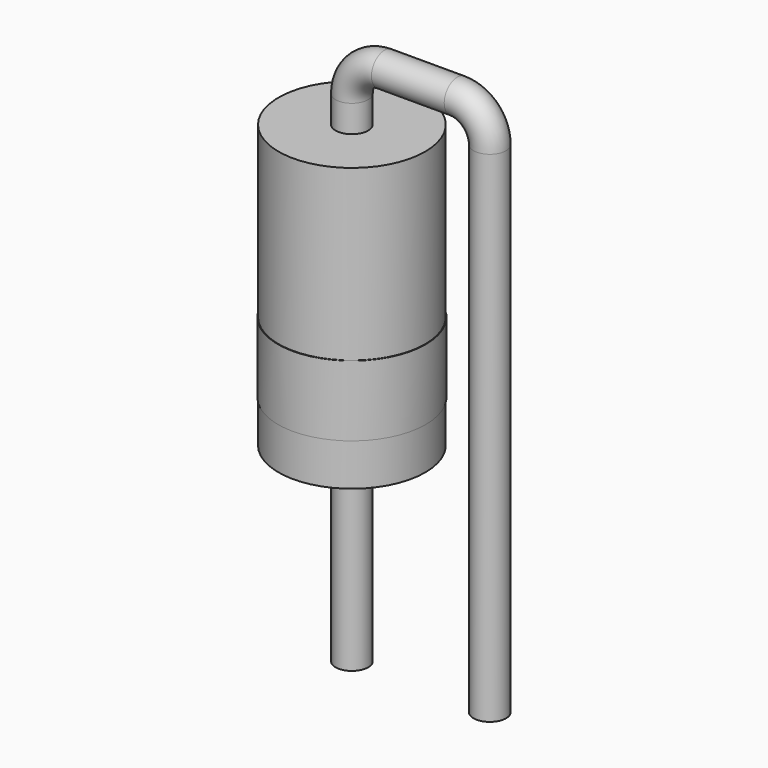
from build123d import *

# Parameters (mm, degrees)
SKETCH001_R = 0.3
SKETCH002_W = 1.35
SKETCH002_H = 5.2
SKETCH003_W = 1.36
SKETCH003_H = 1.3


with BuildPart() as sweep_body:
    # Sweep: sweep along a path in Sketch
    with BuildLine(Plane.XZ) as sweep_path:
        Line((0, -3), (0, 6.2))
        ThreePointArc((0, 6.2), (0.175736, 6.624264), (0.6, 6.8))
        Line((0.6, 6.8), (1.94, 6.8))
        ThreePointArc((1.94, 6.8), (2.364264, 6.624264), (2.54, 6.2))
        Line((2.54, 6.2), (2.54, -3))
    # Sketch001 → Sweep (sweep)
    with BuildSketch(Plane.XY):
        Circle(SKETCH001_R)
    sweep(path=sweep_path.line)


with BuildPart() as revolution:
    # Sketch002 → Revolution (revolve)
    with BuildSketch(Plane.XZ):
        with Locations((0.675, 3.1)):
            Rectangle(SKETCH002_W, SKETCH002_H)
    revolve(axis=Axis((0, 0, 0.5), (0, 0, 1)))


with BuildPart() as revolution001:
    # Sketch003 → Revolution001 (revolve)
    with BuildSketch(Plane.XZ):
        with Locations((0.68, 1.93)):
            Rectangle(SKETCH003_W, SKETCH003_H)
    revolve(axis=Axis((0, 0, 0), (0, 0, 1)))


solid = Compound([sweep_body.part, revolution.part, revolution001.part])
